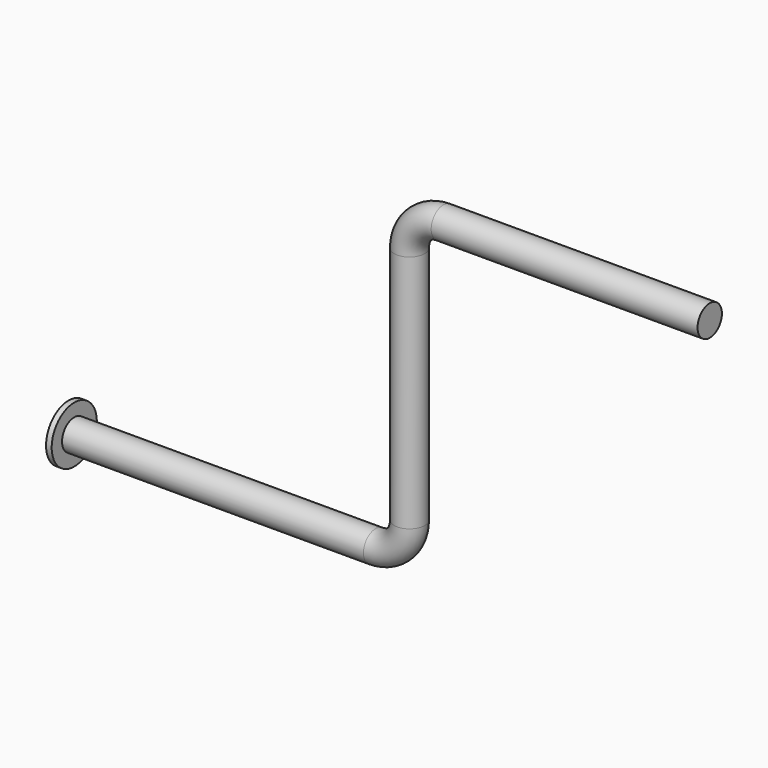
from build123d import *

# Parameters (mm, degrees)
F0_R     = 67.5
F0_R_2   = 125
F3_DEPTH = 25


with BuildPart() as f2:
    # F2: sweep along a path in F1
    with BuildLine(Plane.XZ) as f2_path:
        Line((0, 0), (1360, 0))
        ThreePointArc((1360, 0), (1466.066017, 43.933983), (1510, 150))
        Line((1510, 150), (1510, 1210))
        ThreePointArc((1510, 1210), (1553.933983, 1316.066017), (1660, 1360))
        Line((1660, 1360), (2840, 1360))
    # F0 (on Right) → F2 (sweep)
    with BuildSketch(Plane.YZ):
        Circle(F0_R)
    sweep(path=f2_path.line)

    # F0 (on Right) → F3 (join)
    with BuildSketch(Plane.YZ):
        Circle(F0_R_2)
        Circle(F0_R, mode=Mode.SUBTRACT)
    extrude(amount=F3_DEPTH)


solid = f2.part
